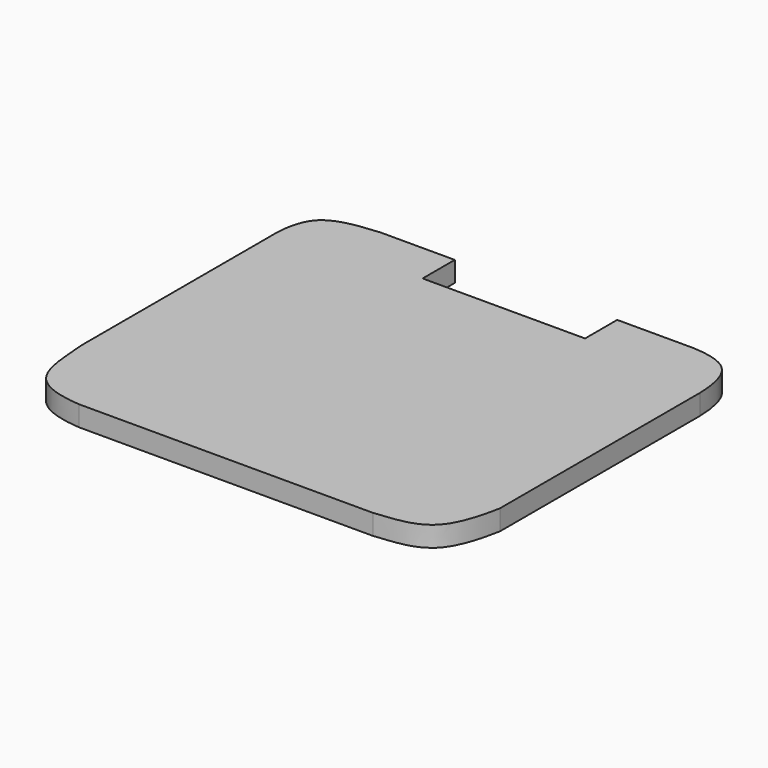
from build123d import *

# Parameters (mm, degrees)
F0_W      = 400
F0_H      = 350
F1_DEPTH  = 19
F3_DEPTH  = 19.001
F5_DEPTH  = 19.0010001
F7_DEPTH  = 19.0010001
F9_DEPTH  = 19.0010001
F10_W     = 152.0328149199
F10_H     = 37.6462221146
F11_DEPTH = 19.0010001


with BuildPart() as f1:
    # F0 (on Top) → F1 (new body)
    with BuildSketch(Plane.XY):
        Rectangle(F0_W, F0_H)
    extrude(amount=F1_DEPTH)

    # F2 (on face) → F3 (cut, through all)
    with BuildSketch(Plane.XY.offset(19)):
        with BuildLine():
            Line((200, 175), (151.3424734159, 175))
            add(Edge.make_bspline(
                [(151.3424734159, 175), (163.628163973, 174.5270389431), (195.7541165045, 169.8113391239), (199.6478987114, 135.2669980399), (200, 122.4896438138)],
                knots=[0.1722762022, 0.1722762022, 0.1722762022, 0.1722762022, 0.4977126924, 0.8513762401, 0.8513762401, 0.8513762401, 0.8513762401], degree=3))
            Line((200, 122.4896438138), (200, 175))
        make_face()
    extrude(amount=-F3_DEPTH, mode=Mode.SUBTRACT)

    # F4 (on face) → F5 (cut, through all)
    with BuildSketch(Plane.XY.offset(19)):
        with BuildLine():
            add(Edge.make_bspline(
                [(-140.7613994596, 175), (-150.110855442, 173.3851097158), (-195.0889612855, 174.4196814068), (-199.6708864934, 136.6798470352), (-200, 127.4311682667)],
                knots=[0, 0, 0, 0, 0.4272708141, 0.7095152118, 0.7095152118, 0.7095152118, 0.7095152118], degree=3))
            Line((-140.7613994596, 175), (-200, 175))
            Line((-200, 175), (-200, 127.4311682667))
        make_face()
    extrude(amount=-F5_DEPTH, mode=Mode.SUBTRACT)

    # F6 (on face) → F7 (cut, through all)
    with BuildSketch(Plane.XY.offset(19)):
        with BuildLine():
            add(Edge.make_bspline(
                [(-200, -100.9678691626), (-198.025562325, -115.9679433742), (-200.7344906485, -168.6506935141), (-154.2425532874, -174.1251325706), (-143.251940608, -175)],
                knots=[0, 0, 0, 0, 0.432032055, 0.8175239829, 0.8175239829, 0.8175239829, 0.8175239829], degree=3))
            Line((-200, -100.9678691626), (-200, -175))
            Line((-200, -175), (-143.251940608, -175))
        make_face()
    extrude(amount=-F7_DEPTH, mode=Mode.SUBTRACT)

    # F8 (on face) → F9 (cut, through all)
    with BuildSketch(Plane.XY.offset(19)):
        with BuildLine():
            add(Edge.make_bspline(
                [(131.8723261356, -175), (147.6494681392, -172.9795732693), (191.3520223086, -173.7383685692), (199.6154264724, -111.8109622903), (200, -111.4782392979)],
                knots=[0, 0, 0, 0, 0.4868319345, 0.9480551396, 0.9480551396, 0.9480551396, 0.9480551396], degree=3))
            Line((131.8723261356, -175), (200, -175))
            Line((200, -175), (200, -112.0964959264))
            Line((200, -112.0964959264), (200, -111.4782392979))
        make_face()
    extrude(amount=-F9_DEPTH, mode=Mode.SUBTRACT)

    # F10 (on face) → F11 (cut, through all)
    with BuildSketch(Plane.XY.offset(19)):
        with Locations((4.6131424606, 156.1768889427)):
            Rectangle(F10_W, F10_H)
    extrude(amount=-F11_DEPTH, mode=Mode.SUBTRACT)


solid = f1.part
